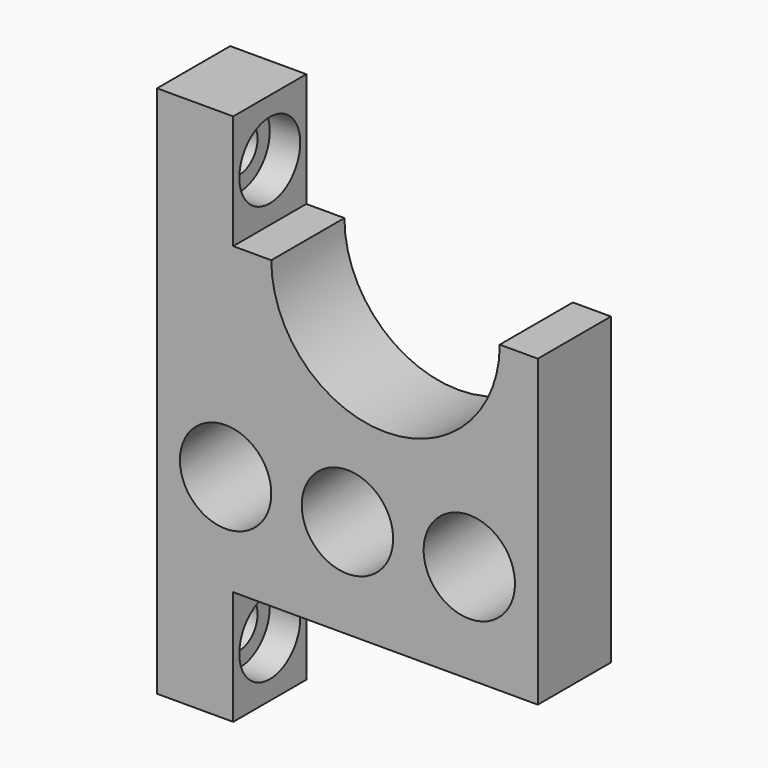
from build123d import *

# Parameters (mm, degrees)
F0_W      = 10
F0_H      = 15
F0_H_2    = 40
F1_DEPTH  = 12
F2_R      = 3
F3_DEPTH  = 10.001
F4_R      = 5
F4_R_2    = 3
F5_DEPTH  = 4
F6_R      = 3
F7_DEPTH  = 10.001
F8_R      = 5
F8_R_2    = 3
F9_DEPTH  = 4
F11_DEPTH = 12.001


with BuildPart() as f1:
    # F0 (on Front) → F1 (new body)
    with BuildSketch(Plane.XZ):
        with Locations((-20, 27.5)):
            Rectangle(F0_W, F0_H)
        with Locations((-20, 0)):
            Rectangle(F0_W, F0_H_2)
        with Locations((-20, -27.5)):
            Rectangle(F0_W, F0_H)
        with BuildLine():
            Line((-15, -20), (25, -20))
            Line((25, -20), (25, 20))
            Line((25, 20), (20, 20))
            ThreePointArc((20, 20), (5, 5), (-10, 20))
            Line((-10, 20), (-15, 20))
            Line((-15, 20), (-15, -20))
        make_face()
    extrude(amount=F1_DEPTH)

    # F2 (on face) → F3 (cut, through all)
    with BuildSketch(Plane.YZ.offset(-15)):
        with Locations((-6, 27.5)):
            Circle(F2_R)
    extrude(amount=-F3_DEPTH, mode=Mode.SUBTRACT)

    # F4 (on face) → F5 (cut)
    with BuildSketch(Plane.YZ.offset(-15)):
        with Locations((-6, 27.5)):
            Circle(F4_R)
        with Locations((-6, 27.5)):
            Circle(F4_R_2, mode=Mode.SUBTRACT)
    extrude(amount=-F5_DEPTH, mode=Mode.SUBTRACT)

    # F6 (on face) → F7 (cut, through all)
    with BuildSketch(Plane.YZ.offset(-15)):
        with Locations((-6, -27.5)):
            Circle(F6_R)
    extrude(amount=-F7_DEPTH, mode=Mode.SUBTRACT)

    # F8 (on face) → F9 (cut)
    with BuildSketch(Plane.YZ.offset(-15)):
        with Locations((-6, -27.5)):
            Circle(F8_R)
        with Locations((-6, -27.5)):
            Circle(F8_R_2, mode=Mode.SUBTRACT)
    extrude(amount=-F9_DEPTH, mode=Mode.SUBTRACT)

    # F10 (on face) → F11 (cut, through all)
    with BuildSketch(Plane.XZ.offset(12)):
        with BuildLine():
            Line((-22, -7), (-10, -7))
            ThreePointArc((-10, -7), (-16, -1), (-22, -7))
        make_face()
        with BuildLine():
            ThreePointArc((-22, -7), (-16, -13), (-10, -7))
            Line((-10, -7), (-22, -7))
        make_face()
        with BuildLine():
            Line((-6, -7), (6, -7))
            ThreePointArc((6, -7), (0, -1), (-6, -7))
        make_face()
        with BuildLine():
            ThreePointArc((-6, -7), (0, -13), (6, -7))
            Line((6, -7), (-6, -7))
        make_face()
        with BuildLine():
            Line((10, -7), (22, -7))
            ThreePointArc((22, -7), (16, -1), (10, -7))
        make_face()
        with BuildLine():
            ThreePointArc((10, -7), (16, -13), (22, -7))
            Line((22, -7), (10, -7))
        make_face()
    extrude(amount=-F11_DEPTH, mode=Mode.SUBTRACT)


solid = f1.part
